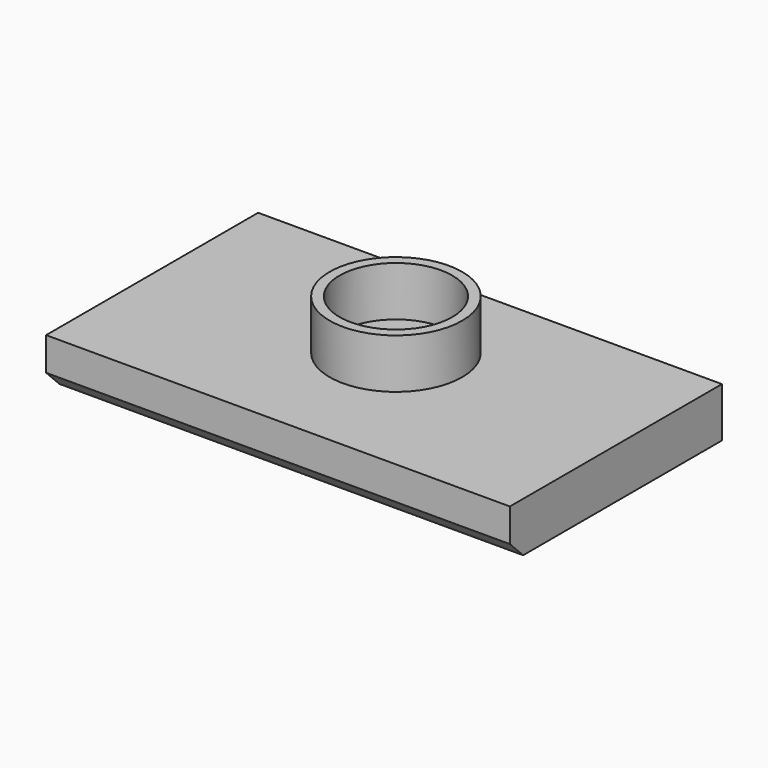
from build123d import *

# Parameters (mm, degrees)
F0_W     = 140
F0_H     = 80
F1_DEPTH = 15
F2_SIZE  = 5
F3_R     = 20
F3_R_2   = 17
F4_DEPTH = 15


with BuildPart() as f1:
    # F0 (on Top) → F1 (new body)
    with BuildSketch(Plane.XY):
        Rectangle(F0_W, F0_H)
    extrude(amount=F1_DEPTH)

    # F2
    f2_edges = [f1.edges().sort_by_distance(p)[0] for p in [
        (0, -40, 0),
    ]]
    chamfer(f2_edges, length=F2_SIZE)


with BuildPart() as f4:
    # F3 (on face) → F4 (new body)
    with BuildSketch(Plane.XY.offset(15)):
        with Locations((0, 4.5)):
            Circle(F3_R)
        with Locations((0, 4.5)):
            Circle(F3_R_2, mode=Mode.SUBTRACT)
    extrude(amount=F4_DEPTH)


solid = Compound([f1.part, f4.part])
